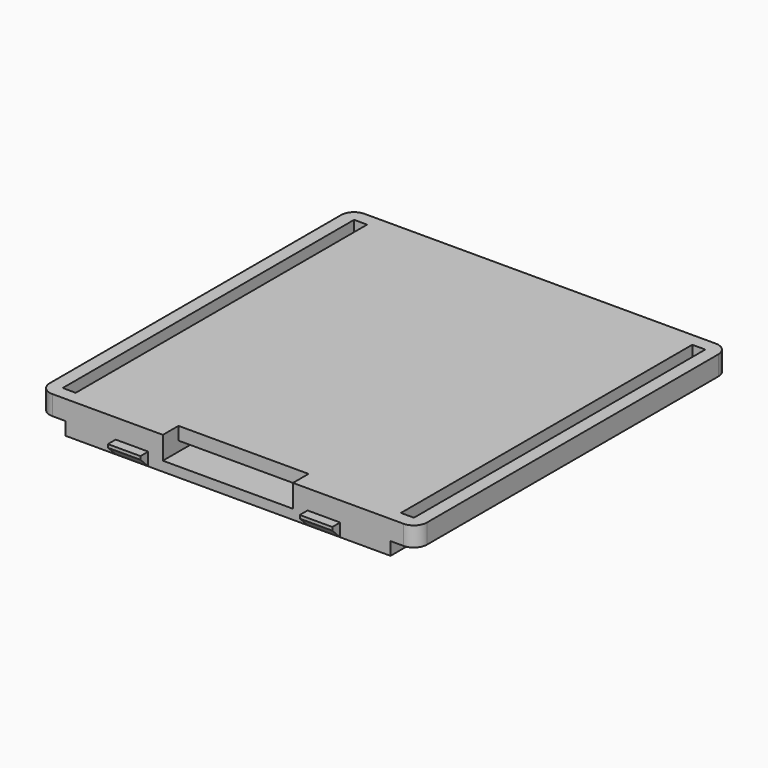
from build123d import *

# Parameters (mm, degrees)
F0_W      = 50
F0_H      = 60
F1_DEPTH  = 5
F4_START  = 2
F3_W      = 58
F3_H      = 60
F4_DEPTH  = 3
F2_W      = 45.5
F2_H      = 45.5
F5_DEPTH  = 3
F7_START  = 1.5
F6_W      = 20
F6_H      = 30
F7_DEPTH  = 1.5
F8_W      = 2
F8_H      = 56
F9_DEPTH  = 25
F10_R     = 2
F11_W     = 5
F11_H     = 1.5
F12_DEPTH = 2
F13_SIZE  = 1.5
F15_START = 3
F14_W     = 20
F14_H     = 3
F15_DEPTH = 2


with BuildPart() as f1:
    # F0 (on Top) → F1 (new body)
    with BuildSketch(Plane.XY):
        Rectangle(F0_W, F0_H)
    extrude(amount=F1_DEPTH)

    # F3 (on Top) → F4 (join)
    with BuildSketch(Plane.XY.offset(F4_START)):
        Rectangle(F3_W, F3_H)
    extrude(amount=F4_DEPTH)

    # F2 (on Top) → F5 (cut)
    with BuildSketch(Plane.XY):
        Rectangle(F2_W, F2_H)
    extrude(amount=F5_DEPTH, mode=Mode.SUBTRACT)

    # F6 (on Top) → F7 (cut)
    with BuildSketch(Plane.XY.offset(F7_START)):
        with Locations((0, -15)):
            Rectangle(F6_W, F6_H)
    extrude(amount=F7_DEPTH, mode=Mode.SUBTRACT)

    # F8 (on Top) → F9 (cut)
    with BuildSketch(Plane.XY):
        with Locations((-26, 0)):
            Rectangle(F8_W, F8_H)
        with Locations((26, 0)):
            Rectangle(F8_W, F8_H)
    extrude(amount=F9_DEPTH, mode=Mode.SUBTRACT)

    # F10
    f10_edges = [f1.edges().sort_by_distance(p)[0] for p in [
        (29, -30, 3.5),
        (-29, -30, 3.5),
        (-29, 30, 3.5),
        (29, 30, 3.5),
    ]]
    fillet(f10_edges, radius=F10_R)

    # F11 (on Top) → F12 (join)
    with BuildSketch(Plane.XY):
        with Locations((-14.75, -30.75)):
            Rectangle(F11_W, F11_H)
        with Locations((14.75, -30.75)):
            Rectangle(F11_W, F11_H)
        with Locations((14.75, 30.75)):
            Rectangle(F11_W, F11_H)
        with Locations((-14.75, 30.75)):
            Rectangle(F11_W, F11_H)
    extrude(amount=F12_DEPTH)

    # F13
    f13_edges = [f1.edges().sort_by_distance(p)[0] for p in [
        (-14.75, -31.5, 0),
        (14.75, -31.5, 0),
        (14.75, 31.5, 0),
        (-14.75, 31.5, 0),
    ]]
    chamfer(f13_edges, length=F13_SIZE)

    # F14 (on Top) → F15 (cut)
    with BuildSketch(Plane.XY.offset(F15_START)):
        with Locations((0, -28.5)):
            Rectangle(F14_W, F14_H)
    extrude(amount=F15_DEPTH, mode=Mode.SUBTRACT)


solid = f1.part
